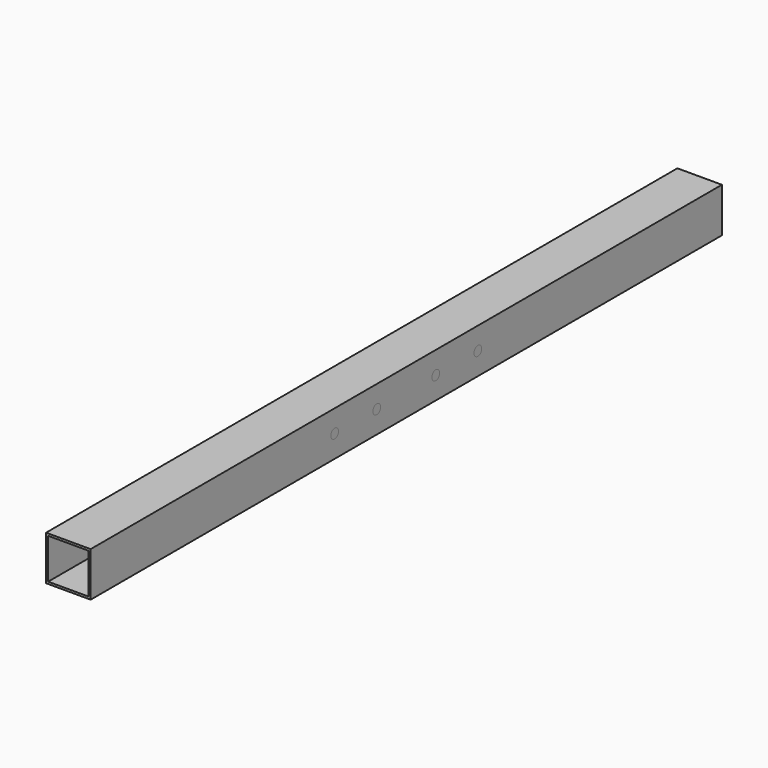
from build123d import *

# Parameters (mm, degrees)
F0_W     = 25.4
F0_H     = 25.4
F0_W_2   = 23
F0_H_2   = 23
F1_DEPTH = 225
F2_DEPTH = 225
F4_D     = 5.5


with BuildPart() as f1:
    # F0 (on Front) → F1 (new body, symmetric)
    with BuildSketch(Plane.XZ):
        Rectangle(F0_W, F0_H)
        Rectangle(F0_W_2, F0_H_2, mode=Mode.SUBTRACT)
    extrude(amount=F1_DEPTH, both=True)


with BuildPart() as f2:
    # F0 (on Front) → F2 (new body, symmetric)
    with BuildSketch(Plane.XZ):
        Rectangle(F0_W, F0_H)
        Rectangle(F0_W_2, F0_H_2, mode=Mode.SUBTRACT)
    extrude(amount=F2_DEPTH, both=True)

    # F4 (through all)
    with Locations(Plane.YZ.offset(12.7)):
        with Locations((-51.05, 0), (-21.05, 0), (21.05, 0), (51.05, 0)):
            Hole(F4_D / 2)


solid = Compound([f1.part, f2.part])
